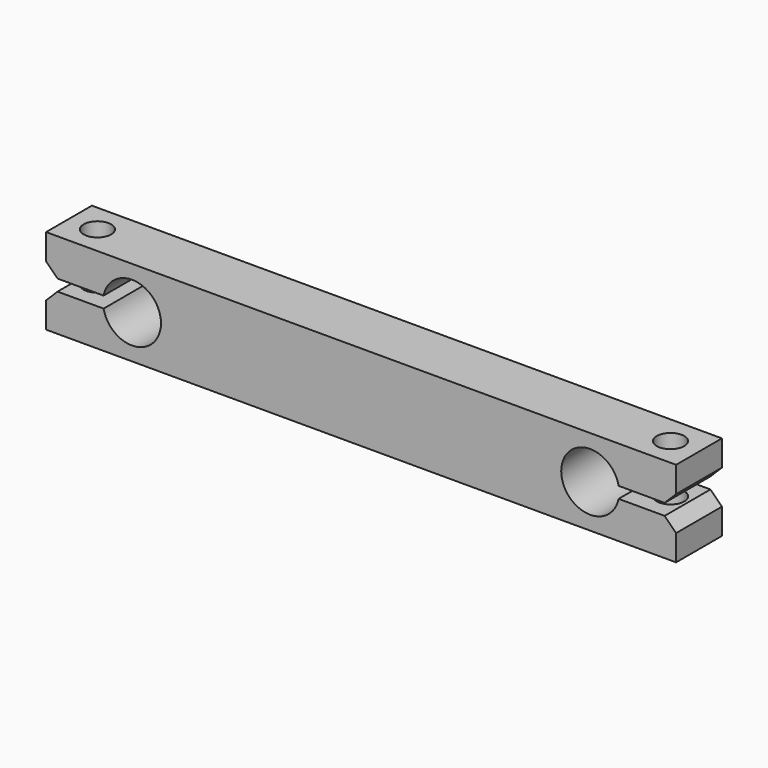
from build123d import *

# Parameters (mm, degrees)
F0_W     = 34.925
F0_H     = 9.525
F0_R     = 3.2131
F1_DEPTH = 6.35
F2_R     = 1.524
F3_DEPTH = 9.525
F5_DEPTH = 6.351
F6_SIZE  = 1.27


with BuildPart() as f1:
    # F0 (on Front) → F1 (new body)
    with BuildSketch(Plane.XZ):
        with Locations((17.4625, 0)):
            Rectangle(F0_W, F0_H)
        with Locations((25.4, 0)):
            Circle(F0_R, mode=Mode.SUBTRACT)
    extrude(amount=F1_DEPTH)

    # F2 (on face) → F3 (cut, through all)
    with BuildSketch(Plane.XY.offset(4.7625)):
        with Locations((31.76905, -3.175)):
            Circle(F2_R)
    extrude(amount=-F3_DEPTH, mode=Mode.SUBTRACT)

    # F4 (on face) → F5 (cut, through all)
    with BuildSketch(Plane(origin=(0, 0, 0), x_dir=(-1, 0, 0), z_dir=(0, 1, 0))):
        with BuildLine():
            Line((-28.5497280216, 0.635), (-34.925, 0.635))
            Line((-34.925, 0.635), (-34.925, -0.635))
            Line((-34.925, -0.635), (-28.5497280216, -0.635))
            ThreePointArc((-28.5497280216, -0.635), (-28.6131, 0), (-28.5497280216, 0.635))
        make_face()
    extrude(amount=-F5_DEPTH, mode=Mode.SUBTRACT)

    # F6
    f6_edges = [f1.edges().sort_by_distance(p)[0] for p in [
        (34.925, -3.175, 0.635),
        (34.925, -3.175, -0.635),
    ]]
    chamfer(f6_edges, length=F6_SIZE)

    # F7: F1 across face


with BuildPart() as f1_1:
    add(f1.part)
    add(f1.part.mirror(Plane(origin=(0, -3.175, 0), x_dir=(0, -1, 0), z_dir=(-1, 0, 0))))


solid = f1_1.part
